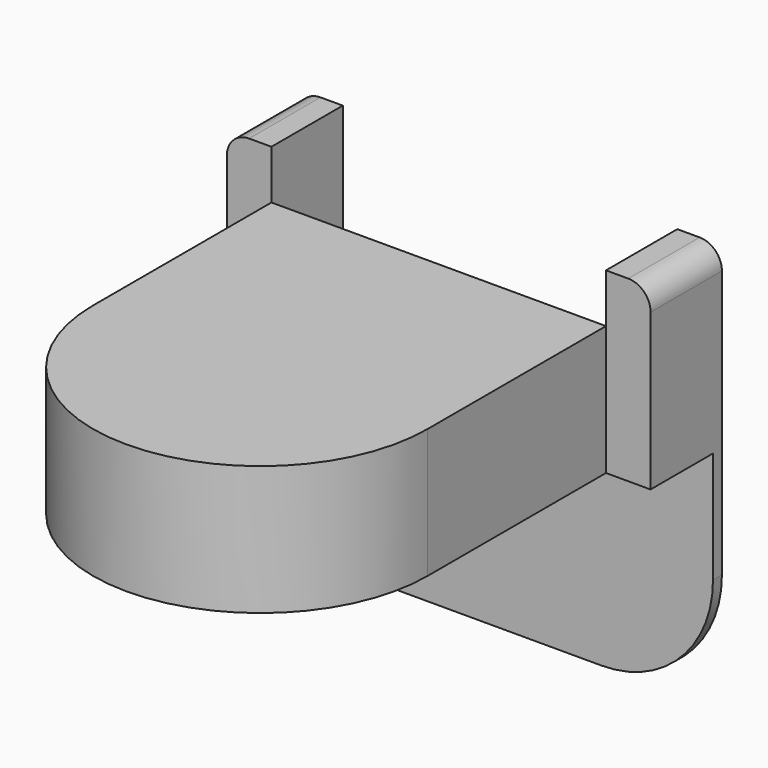
from build123d import *

# Parameters (mm, degrees)
F0_W     = 15
F0_H     = 0.5
F1_DEPTH = 5.8
F2_SIZE2 = 4
F2_SIZE  = 3
F0_W_2   = 2
F0_H_2   = 3.5
F3_DEPTH = 8
F4_DEPTH = 10
F5_R     = 1
F6_R     = 5


with BuildPart() as f1:
    # F0 (on Top) → F1 (new body)
    with BuildSketch(Plane.XY):
        with BuildLine():
            Line((-7.5, 10), (-7.5, 0))
            ThreePointArc((-7.5, 0), (0, -7.5), (7.5, 0))
            Line((7.5, 0), (7.5, 10))
            Line((7.5, 10), (7.5, 13.5))
            Line((7.5, 13.5), (-7.5, 13.5))
            Line((-7.5, 13.5), (-7.5, 10))
        make_face()
        with Locations((0, 13.75)):
            Rectangle(F0_W, F0_H)
    extrude(amount=F1_DEPTH)

    # F2
    f2_edges = [f1.edges().sort_by_distance(p)[0] for p in [
        (0, 14, 5.8),
    ]]
    chamfer(f2_edges, length=F2_SIZE, length2=F2_SIZE2)

    # F0 (on Top) → F3 (join)
    with BuildSketch(Plane.XY):
        with Locations((-8.5, 11.75)):
            Rectangle(F0_W_2, F0_H_2)
        with Locations((8.5, 13.75)):
            Rectangle(F0_W_2, F0_H)
        with Locations((8.5, 11.75)):
            Rectangle(F0_W_2, F0_H_2)
        with Locations((-8.5, 13.75)):
            Rectangle(F0_W_2, F0_H)
    extrude(amount=F3_DEPTH)

    # F0 (on Top) → F4 (join)
    with BuildSketch(Plane.XY):
        with Locations((0, 13.75)):
            Rectangle(F0_W, F0_H)
        with Locations((8.5, 13.75)):
            Rectangle(F0_W_2, F0_H)
        with Locations((-8.5, 13.75)):
            Rectangle(F0_W_2, F0_H)
    extrude(amount=-F4_DEPTH)

    # F5
    f5_edges = [f1.edges().sort_by_distance(p)[0] for p in [
        (-9.5, 12, 8),
        (9.5, 12, 8),
    ]]
    fillet(f5_edges, radius=F5_R)

    # F6
    f6_edges = [f1.edges().sort_by_distance(p)[0] for p in [
        (9.5, 13.75, -10),
        (-9.5, 13.75, -10),
    ]]
    fillet(f6_edges, radius=F6_R)


solid = f1.part
